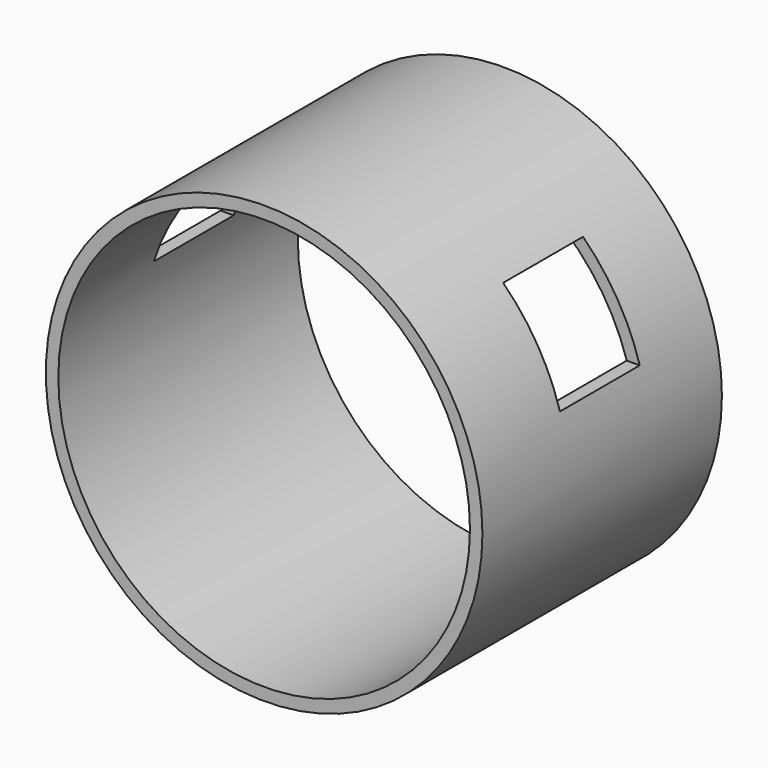
from build123d import *

# Parameters (mm, degrees)
F0_R          = 55.5625
F0_R_2        = 52.3875
F1_DEPTH      = 76.2
F2_W          = 25.4
F2_H          = 24.1299933493
F3_DEPTH      = 76.2
F3_DEPTH_BACK = 76.2


with BuildPart() as f1:
    # F0 (on Front) → F1 (new body)
    with BuildSketch(Plane.XZ):
        with Locations((18.4400081635, 33.4117338061)):
            Circle(F0_R)
        with Locations((18.4400081635, 33.4117338061)):
            Circle(F0_R_2, mode=Mode.SUBTRACT)
    extrude(amount=F1_DEPTH)

    # F2 (on Right) → F3 (cut, two sides)
    with BuildSketch(Plane.YZ) as f3_sk:
        with Locations((-36.0664501786, 61.0203184187)):
            Rectangle(F2_W, F2_H)
    extrude(amount=-F3_DEPTH, mode=Mode.SUBTRACT)
    extrude(f3_sk.sketch, amount=F3_DEPTH_BACK, mode=Mode.SUBTRACT)


solid = f1.part
